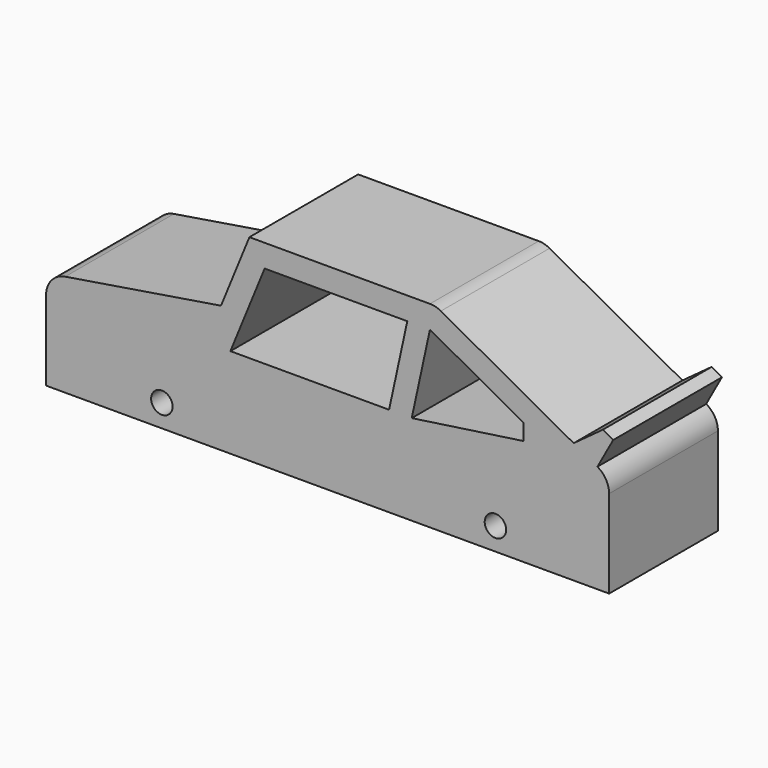
from build123d import *

# Parameters (mm, degrees)
F0_R     = 3
F1_DEPTH = 38.1


with BuildPart() as f1:
    # F0 (on Front) → F1 (new body)
    with BuildSketch(Plane.XZ):
        with BuildLine():
            ThreePointArc((-63.834237, -6.35), (-49.682526, 18.216848), (-27.958176, 0))
            ThreePointArc((-27.958176, 0), (-28.241328, -3.22435), (-29.082115, -6.35))
            Line((-29.082115, -6.35), (29.656009, -6.35))
            ThreePointArc((29.656009, -6.35), (43.80772, 18.216848), (65.53207, 0))
            ThreePointArc((65.53207, 0), (65.248919, -3.22435), (64.408131, -6.35))
            Line((64.408131, -6.35), (78.902803, -6.35))
            Line((78.902803, -6.35), (78.902803, 18.319092))
            ThreePointArc((78.902803, 18.319092), (78.019117, 21.550487), (75.614012, 23.8825))
            Line((75.614012, 23.8825), (80.032745, 31.913057))
            Line((80.032745, 31.913057), (77.126751, 33.512051))
            Line((77.126751, 33.512051), (68.966064, 27.540465))
            Line((68.966064, 27.540465), (31.739181, 48.02418))
            ThreePointArc((31.739181, 48.02418), (30.258299, 48.610981), (28.677972, 48.810773))
            Line((28.677972, 48.810773), (-21.916144, 48.810773))
            Line((-21.916144, 48.810773), (-29.875312, 29.312046))
            Line((-29.875312, 29.312046), (-73.56282, 22.273607))
            ThreePointArc((-73.56282, 22.273607), (-77.386855, 20.122025), (-78.902803, 16.004447))
            Line((-78.902803, 16.004447), (-78.902803, -6.35))
            Line((-78.902803, -6.35), (-63.834237, -6.35))
        make_face()
        Polygon((-27.242659, 18.959029), (-17.649503, 42.460773), (22.330722, 42.460773), (17.231188, 18.959029), align=None, mode=Mode.SUBTRACT)
        Polygon((23.578439, 18.959029), (28.677972, 42.460773), (54.840085, 28.065335), (54.840085, 23.482008), align=None, mode=Mode.SUBTRACT)
        with BuildLine():
            ThreePointArc((-29.082115, -6.35), (-28.241328, -3.22435), (-27.958176, 0))
            ThreePointArc((-27.958176, 0), (-49.682526, 18.216848), (-63.834237, -6.35))
            Line((-63.834237, -6.35), (-29.082115, -6.35))
        make_face()
        with Locations((-46.458176, 0)):
            Circle(F0_R, mode=Mode.SUBTRACT)
        with BuildLine():
            ThreePointArc((65.53207, 0), (43.80772, 18.216848), (29.656009, -6.35))
            Line((29.656009, -6.35), (64.408131, -6.35))
            ThreePointArc((64.408131, -6.35), (65.248919, -3.22435), (65.53207, 0))
        make_face()
        with Locations((47.03207, 0)):
            Circle(F0_R, mode=Mode.SUBTRACT)
    extrude(amount=F1_DEPTH)


solid = f1.part
